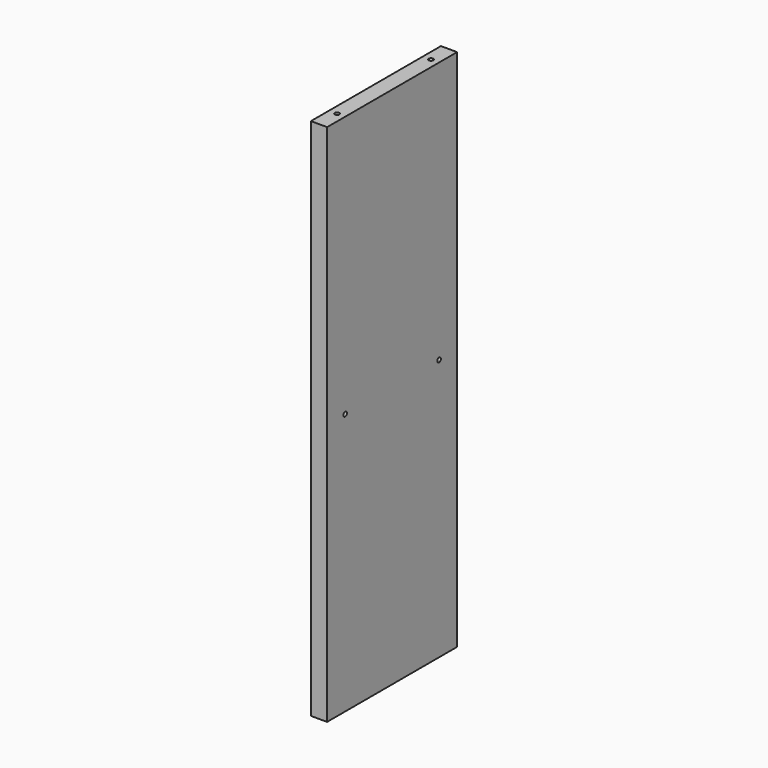
from build123d import *

# Parameters (mm, degrees)
F0_W     = 18
F0_H     = 580
F1_DEPTH = 90
F3_D     = 5
F3_DEPTH = 13.5
F3_TIP   = 1.5021515476
F5_D     = 5
F5_DEPTH = 15
F5_TIP   = 1.5021515476
F6_W     = 180
F6_H     = 580
F6_R     = 2.5
F7_DEPTH = 10
F8_R     = 2.5
F9_DEPTH = 10


with BuildPart() as f1:
    # F0 (on Front) → F1 (new body, symmetric)
    with BuildSketch(Plane.XZ):
        Rectangle(F0_W, F0_H)
    extrude(amount=F1_DEPTH, both=True)

    # F3
    with Locations(Plane.XY.offset(290)):
        with Locations((0, 65), (0, -65)):
            Hole(F3_D / 2, depth=F3_DEPTH)
            with Locations((0, 0, -(F3_DEPTH + F3_TIP / 2))):  # 118° drill point
                Cone(0, F3_D / 2, F3_TIP, mode=Mode.SUBTRACT)

    # F5
    with Locations(Plane(origin=(0, 0, -290), x_dir=(1, 0, 0), z_dir=(0, 0, -1))):
        with Locations((0, 65), (0, -65)):
            Hole(F5_D / 2, depth=F5_DEPTH)
            with Locations((0, 0, -(F5_DEPTH + F5_TIP / 2))):  # 118° drill point
                Cone(0, F5_D / 2, F5_TIP, mode=Mode.SUBTRACT)

    # F6 (on face) → F7 (cut)
    with BuildSketch(Plane.YZ.offset(9)):
        Rectangle(F6_W, F6_H)
        with Locations((-60, 0)):
            Circle(F6_R, mode=Mode.SUBTRACT)
        with Locations((60, 0)):
            Circle(F6_R, mode=Mode.SUBTRACT)
    extrude(amount=F7_DEPTH, mode=Mode.SUBTRACT)

    # F8 (on face) → F9 (cut)
    with BuildSketch(Plane.YZ.offset(9)):
        with Locations((-65, 0)):
            Circle(F8_R)
        with Locations((65, 0)):
            Circle(F8_R)
    extrude(amount=-F9_DEPTH, mode=Mode.SUBTRACT)


solid = f1.part
